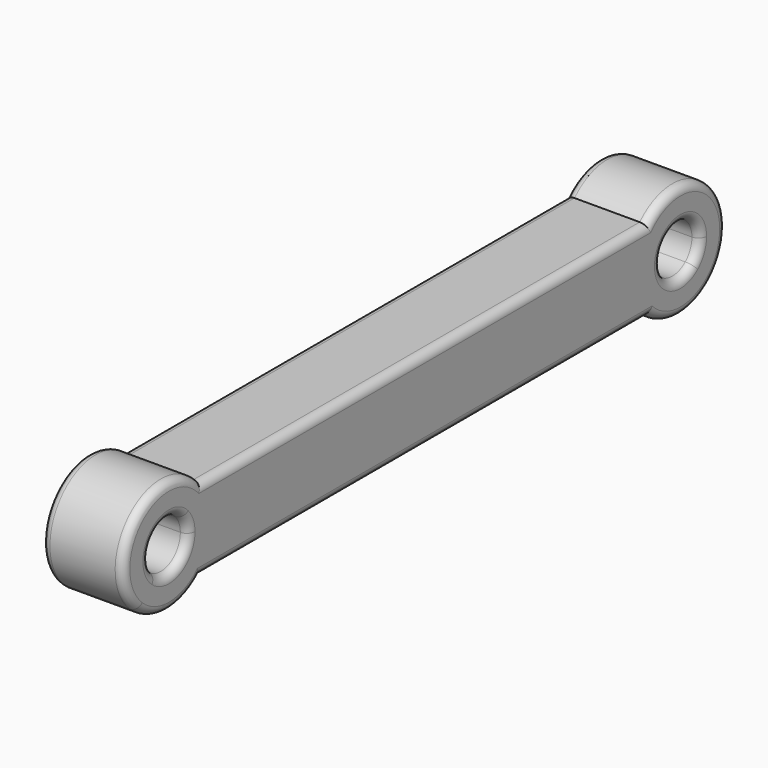
from build123d import *

# Parameters (mm, degrees)
F1_DEPTH = 5
F2_R     = 0.5


with BuildPart() as f1:
    # F0 (on Right) → F1 (new body)
    with BuildSketch(Plane.YZ):
        with BuildLine():
            ThreePointArc((-18.5106305825, 66.1594215705), (-18.2208016135, 65.6909432366), (-18.11964402, 65.1494269193))
            ThreePointArc((-18.11964402, 65.1494269193), (-18.9990346422, 63.7838340077), (-20.606102687, 64.0194272298))
            Line((-20.606102687, 64.0194272298), (-22.0063545391, 62.5894244002))
            Line((-22.0063545391, 62.5894244002), (-17.2329335009, 62.5894244002))
            ThreePointArc((-17.2329335009, 62.5894244002), (-16.4100111113, 63.7536272949), (-16.11964402, 65.1494269193))
            ThreePointArc((-16.11964402, 65.1494269193), (-16.3767727218, 66.4661599003), (-17.1103787304, 67.5894244002))
            Line((-17.1103787304, 67.5894244002), (-18.5106305825, 66.1594215705))
        make_face()
        with BuildLine():
            ThreePointArc((-20.606102687, 64.0194272298), (-20.6913943932, 66.1988796994), (-18.5106305825, 66.1594215705))
            Line((-18.5106305825, 66.1594215705), (-17.1103787304, 67.5894244002))
            ThreePointArc((-17.1103787304, 67.5894244002), (-22.1203948908, 67.5981500727), (-22.0063545391, 62.5894244002))
            Line((-22.0063545391, 62.5894244002), (-20.606102687, 64.0194272298))
        make_face()
        with BuildLine():
            Line((-12.1103787304, 67.5894244002), (-17.1103787304, 67.5894244002))
            ThreePointArc((-17.1103787304, 67.5894244002), (-16.3767727218, 66.4661599003), (-16.11964402, 65.1494269193))
            ThreePointArc((-16.11964402, 65.1494269193), (-16.4100111113, 63.7536272949), (-17.2329335009, 62.5894244002))
            Line((-17.2329335009, 62.5894244002), (-6.5383484153, 62.5894244002))
            Line((-6.5383484153, 62.5894244002), (6.5383484153, 62.5894244002))
            Line((6.5383484153, 62.5894244002), (17.2329335009, 62.5894244002))
            ThreePointArc((17.2329335009, 62.5894244002), (16.1206949235, 65.0636643386), (17.1103787304, 67.5894244002))
            Line((17.1103787304, 67.5894244002), (12.1103787304, 67.5894244002))
            Line((12.1103787304, 67.5894244002), (-12.1103787304, 67.5894244002))
        make_face()
        with BuildLine():
            Line((-17.2329335009, 62.5894244002), (-22.0063545391, 62.5894244002))
            ThreePointArc((-22.0063545391, 62.5894244002), (-19.61964402, 61.6494269193), (-17.2329335009, 62.5894244002))
        make_face()
        with BuildLine():
            Line((18.5106305825, 66.1594215705), (17.1103787304, 67.5894244002))
            ThreePointArc((17.1103787304, 67.5894244002), (16.1206949235, 65.0636643386), (17.2329335009, 62.5894244002))
            Line((17.2329335009, 62.5894244002), (22.0063545391, 62.5894244002))
            Line((22.0063545391, 62.5894244002), (20.606102687, 64.0194272298))
            ThreePointArc((20.606102687, 64.0194272298), (18.5478936468, 64.0999741393), (18.5106305825, 66.1594215705))
        make_face()
        with BuildLine():
            ThreePointArc((23.11964402, 65.1494269193), (20.936377001, 68.3922982175), (17.1103787304, 67.5894244002))
            Line((17.1103787304, 67.5894244002), (18.5106305825, 66.1594215705))
            ThreePointArc((18.5106305825, 66.1594215705), (20.1611603373, 66.5482693258), (21.11964402, 65.1494269193))
            ThreePointArc((21.11964402, 65.1494269193), (20.9852369316, 64.5288175416), (20.606102687, 64.0194272298))
            Line((20.606102687, 64.0194272298), (22.0063545391, 62.5894244002))
            ThreePointArc((22.0063545391, 62.5894244002), (22.8292769287, 63.7536272949), (23.11964402, 65.1494269193))
        make_face()
        with BuildLine():
            Line((22.0063545391, 62.5894244002), (17.2329335009, 62.5894244002))
            ThreePointArc((17.2329335009, 62.5894244002), (19.61964402, 61.6494269193), (22.0063545391, 62.5894244002))
        make_face()
    extrude(amount=F1_DEPTH)

    # F2
    f2_edges = [f1.edges().sort_by_distance(p)[0] for p in [
        (5, -23.118593, 65.23519),
        (5, 0, 62.589424),
        (5, 23.118593, 65.23519),
        (5, 0, 67.589424),
        (5, 20.728657, 64.139432),
        (5, -21.119644, 65.149427),
        (0, -23.118593, 65.23519),
        (0, 0, 62.589424),
        (0, 23.118593, 65.23519),
        (0, 0, 67.589424),
        (0, 20.728657, 64.139432),
        (0, -21.119644, 65.149427),
    ]]
    fillet(f2_edges, radius=F2_R)


solid = f1.part
